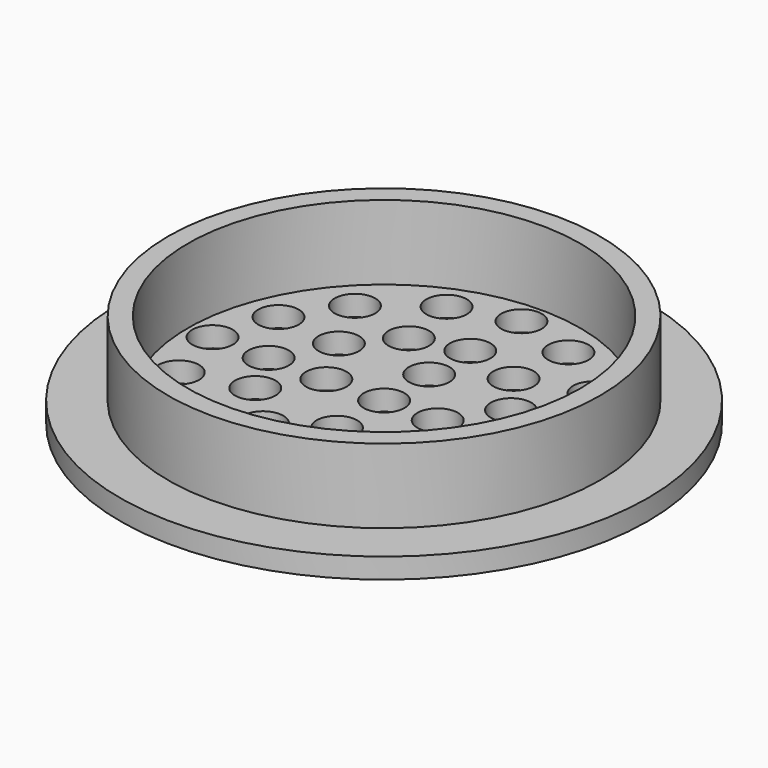
from build123d import *

# Parameters (mm, degrees)
F0_R     = 19.5
F1_DEPTH = 1.5
F2_R     = 15.95
F2_R_2   = 14.5
F3_DEPTH = 7
F4_R     = 1.5
F4_R_2   = 1
F5_DEPTH = 25


with BuildPart() as f1:
    # F0 (on Top) → F1 (new body)
    with BuildSketch(Plane.XY):
        Circle(F0_R)
    extrude(amount=F1_DEPTH)

    # F2 (on Top) → F3 (join)
    with BuildSketch(Plane.XY):
        Circle(F2_R)
        Circle(F2_R_2, mode=Mode.SUBTRACT)
    extrude(amount=F3_DEPTH)

    # F4 (on Top) → F5 (cut)
    with BuildSketch(Plane.XY):
        Circle(F4_R)
        with Locations((0, 4.163333)):
            Circle(F4_R)
        with Locations((0, -4.35781)):
            Circle(F4_R)
        with Locations((0, -8.73511)):
            Circle(F4_R)
        with Locations((0, -12.762225)):
            Circle(F4_R)
        with Locations((0, 7.956992)):
            Circle(F4_R)
        with Locations((0, 12.684477)):
            Circle(F4_R)
        with Locations((-4.26875, 0)):
            Circle(F4_R)
        with Locations((-8.529321, 0)):
            Circle(F4_R)
        with Locations((-12.673165, 0)):
            Circle(F4_R)
        with Locations((3.960573, 0)):
            Circle(F4_R)
        with Locations((8.629692, 0)):
            Circle(F4_R)
        with Locations((12.715172, 0)):
            Circle(F4_R)
        with Locations((-6.486582, 3.929877)):
            Circle(F4_R)
        with Locations((-11.272429, 4.338425)):
            Circle(F4_R)
        with Locations((-8.704414, 8.190447)):
            Circle(F4_R)
        with Locations((-4.502206, 11.400468)):
            Circle(F4_R)
        with Locations((4.544213, 11.342104)):
            Circle(F4_R)
        with Locations((8.863147, 8.248813)):
            Circle(F4_R)
        with Locations((11.372799, 4.396788)):
            Circle(F4_R_2)
        with Locations((11.08098, -4.999814)):
            Circle(F4_R)
        with Locations((8.279508, -8.910201)):
            Circle(F4_R)
        with Locations((4.602577, -11.478217)):
            Circle(F4_R)
        with Locations((-4.735662, -11.128034)):
            Circle(F4_R)
        with Locations((-8.879505, -8.268198)):
            Circle(F4_R)
        with Locations((-11.447521, -4.64963)):
            Circle(F4_R)
        with Locations((-6.778402, -3.423986)):
            Circle(F4_R)
        with Locations((-3.68511, -6.575642)):
            Circle(F4_R)
        with Locations((3.960573, -7.27601)):
            Circle(F4_R)
        with Locations((6.411861, -3.48235)):
            Circle(F4_R)
        with Locations((6.470224, 3.638057)):
            Circle(F4_R)
        with Locations((4.135665, 6.789712)):
            Circle(F4_R)
        with Locations((-3.743474, 6.964805)):
            Circle(F4_R)
    extrude(amount=F5_DEPTH, mode=Mode.SUBTRACT)


solid = f1.part
